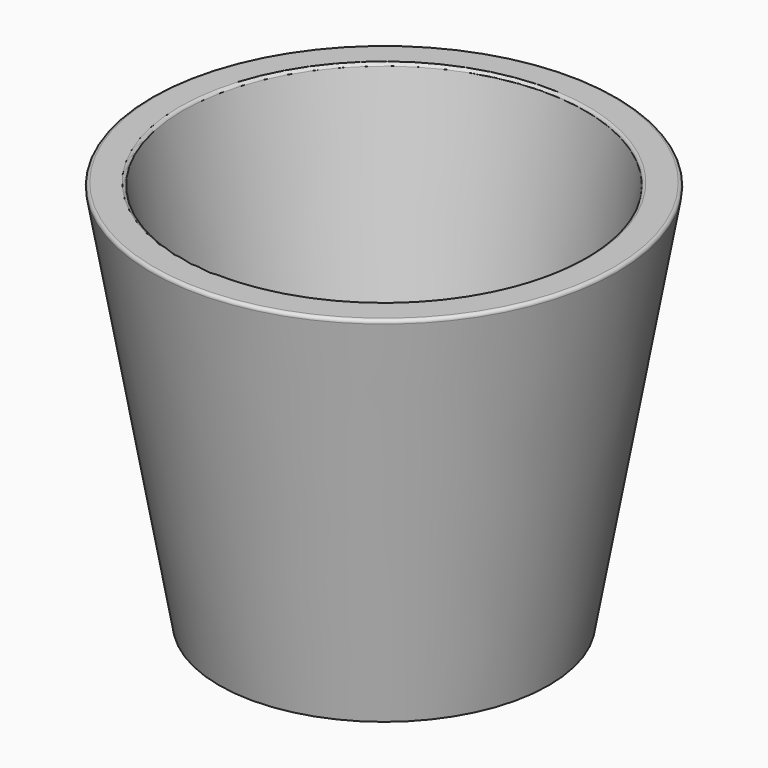
from build123d import *

# Parameters (mm, degrees)
F2_T = -5.08
F3_R = 0.508


with BuildPart() as f1:
    # F0 (on Front) → F1 (revolve)
    with BuildSketch(Plane.XZ):
        Polygon((0, 0), (0, 63.5), (-38.1, 63.5), (-26.903236725, 0), align=None)
    revolve(axis=Axis((0, 0, 31.75), (0, 0, 1)))

    # F2
    f2_openings = [f1.faces().sort_by_distance(p)[0] for p in [
        (0, 0, 63.5),
    ]]
    offset(amount=F2_T, openings=f2_openings)

    # F3
    f3_edges = [f1.edges().sort_by_distance(p)[0] for p in [
        (38.1, 0, 63.5),
        (32.941633, 0, 63.5),
    ]]
    fillet(f3_edges, radius=F3_R)


solid = f1.part
